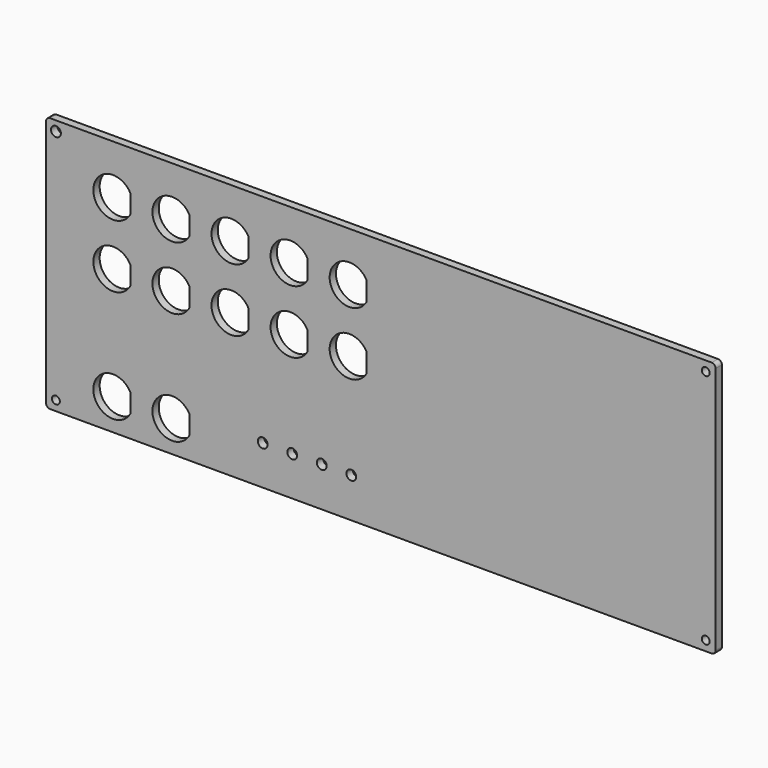
from build123d import *

# Parameters (mm, degrees)
F0_R     = 1.27
F0_R_2   = 1.5875
F1_DEPTH = 2.54


with BuildPart() as f1:
    # F0 (on Front) → F1 (new body)
    with BuildSketch(Plane.XZ):
        with BuildLine():
            Line((106.68, 41.275), (-106.680917, 41.275))
            ThreePointArc((-106.680917, 41.275), (-107.578942, 40.903026), (-107.950917, 40.005))
            Line((-107.950917, 40.005), (-107.950917, -40.032181))
            ThreePointArc((-107.950917, -40.032181), (-107.578942, -40.930207), (-106.680917, -41.302181))
            Line((-106.680917, -41.302181), (106.68, -41.302181))
            ThreePointArc((106.68, -41.302181), (107.578026, -40.930207), (107.95, -40.032181))
            Line((107.95, -40.032181), (107.95, 40.005))
            ThreePointArc((107.95, 40.005), (107.578026, 40.903026), (106.68, 41.275))
        make_face()
        with Locations((-104.775917, -38.127181)):
            Circle(F0_R, mode=Mode.SUBTRACT)
        with BuildLine():
            ThreePointArc((-80.80375, -34.216362), (-92.71, -31.142181), (-80.80375, -28.068001))
            Line((-80.80375, -28.068001), (-80.80375, -34.216362))
        make_face(mode=Mode.SUBTRACT)
        with BuildLine():
            ThreePointArc((-61.75375, -34.216362), (-73.66, -31.142181), (-61.75375, -28.068001))
            Line((-61.75375, -28.068001), (-61.75375, -34.216362))
        make_face(mode=Mode.SUBTRACT)
        with Locations((-38.1, -28.602181)):
            Circle(F0_R_2, mode=Mode.SUBTRACT)
        with Locations((-28.575, -28.602181)):
            Circle(F0_R_2, mode=Mode.SUBTRACT)
        with Locations((-19.05, -28.472418)):
            Circle(F0_R_2, mode=Mode.SUBTRACT)
        with Locations((-9.525, -28.472418)):
            Circle(F0_R_2, mode=Mode.SUBTRACT)
        with Locations((104.775, -38.127181)):
            Circle(F0_R, mode=Mode.SUBTRACT)
        with BuildLine():
            ThreePointArc((-80.80375, 2.005819), (-92.71, 5.08), (-80.80375, 8.154181))
            Line((-80.80375, 8.154181), (-80.80375, 2.005819))
        make_face(mode=Mode.SUBTRACT)
        with BuildLine():
            ThreePointArc((-61.75375, 2.005819), (-73.66, 5.08), (-61.75375, 8.154181))
            Line((-61.75375, 8.154181), (-61.75375, 2.005819))
        make_face(mode=Mode.SUBTRACT)
        with BuildLine():
            ThreePointArc((-42.70375, 2.005819), (-54.61, 5.08), (-42.70375, 8.154181))
            Line((-42.70375, 8.154181), (-42.70375, 2.005819))
        make_face(mode=Mode.SUBTRACT)
        with BuildLine():
            ThreePointArc((-23.65375, 2.005819), (-35.56, 5.08), (-23.65375, 8.154181))
            Line((-23.65375, 8.154181), (-23.65375, 2.005819))
        make_face(mode=Mode.SUBTRACT)
        with BuildLine():
            ThreePointArc((-4.60375, 2.005819), (-16.51, 5.08), (-4.60375, 8.154181))
            Line((-4.60375, 8.154181), (-4.60375, 2.005819))
        make_face(mode=Mode.SUBTRACT)
        with BuildLine():
            ThreePointArc((-80.80375, 22.325819), (-92.71, 25.4), (-80.80375, 28.474181))
            Line((-80.80375, 28.474181), (-80.80375, 22.325819))
        make_face(mode=Mode.SUBTRACT)
        with BuildLine():
            ThreePointArc((-61.75375, 22.325819), (-73.66, 25.4), (-61.75375, 28.474181))
            Line((-61.75375, 28.474181), (-61.75375, 22.325819))
        make_face(mode=Mode.SUBTRACT)
        with Locations((-104.775917, 38.1)):
            Circle(F0_R_2, mode=Mode.SUBTRACT)
        with BuildLine():
            ThreePointArc((-42.70375, 22.325819), (-54.61, 25.4), (-42.70375, 28.474181))
            Line((-42.70375, 28.474181), (-42.70375, 22.325819))
        make_face(mode=Mode.SUBTRACT)
        with BuildLine():
            ThreePointArc((-23.65375, 22.325819), (-35.56, 25.4), (-23.65375, 28.474181))
            Line((-23.65375, 28.474181), (-23.65375, 22.325819))
        make_face(mode=Mode.SUBTRACT)
        with BuildLine():
            ThreePointArc((-4.60375, 22.325819), (-16.51, 25.4), (-4.60375, 28.474181))
            Line((-4.60375, 28.474181), (-4.60375, 22.325819))
        make_face(mode=Mode.SUBTRACT)
        with Locations((104.775, 38.1)):
            Circle(F0_R, mode=Mode.SUBTRACT)
    extrude(amount=F1_DEPTH)


solid = f1.part
